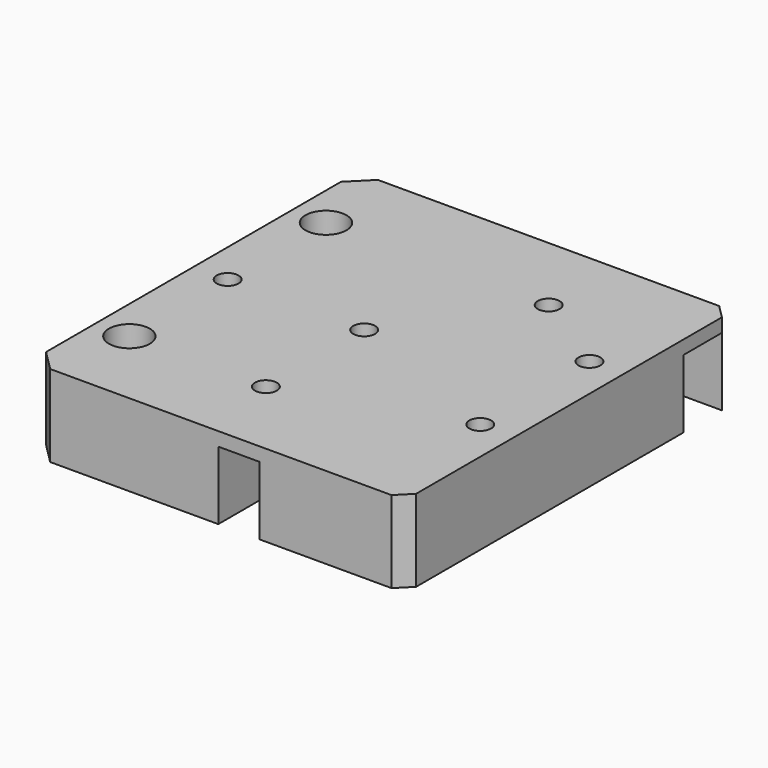
from build123d import *

# Parameters (mm, degrees)
BOX038_W          = 8
BOX038_H          = 10
BOX038_DEPTH      = 5
CYLINDER036_R     = 2.9
CYLINDER036_DEPTH = 2
CYLINDER033_R     = 2.9
CYLINDER033_DEPTH = 2
CHAMFER027_SIZE   = 0.4
BOX016_W          = 15
BOX016_H          = 13
BOX016_DEPTH      = 9
CHAMFER018_SIZE   = 2
BOX015_W          = 11
BOX015_H          = 54
BOX015_DEPTH      = 9
BOX017_W          = 15
BOX017_H          = 12
BOX017_DEPTH      = 9
CYLINDER042_R     = 3
CYLINDER042_DEPTH = 6
CHAMFER017_SIZE   = 2
CYLINDER043_R     = 3
CYLINDER043_DEPTH = 6
CHAMFER016_SIZE   = 2
BOX012_W          = 20
BOX012_H          = 20
BOX012_DEPTH      = 10
FILLET_R          = 9
BOX014_W          = 9
BOX014_H          = 7
BOX014_DEPTH      = 10
BOX013_W          = 6
BOX013_H          = 38
BOX013_DEPTH      = 10
CYLINDER038_R     = 1.6
CYLINDER038_DEPTH = 20
CYLINDER037_R     = 1.6
CYLINDER037_DEPTH = 20
CYLINDER041_R     = 1.6
CYLINDER041_DEPTH = 20
CYLINDER040_R     = 1.6
CYLINDER040_DEPTH = 20
CYLINDER039_R     = 1.6
CYLINDER039_DEPTH = 20
CYLINDER035_R     = 1.6
CYLINDER035_DEPTH = 20
BOX011_W          = 55
BOX011_H          = 60
BOX011_DEPTH      = 12
CHAMFER028_SIZE   = 1.99
CHAMFER029_SIZE   = 2
CHAMFER030_SIZE   = 3


with BuildPart() as cube037:
    # Box038 → Box038 (new body)
    with BuildSketch(Plane(origin=(27.63, 50, 23), x_dir=(1, 0, 0), z_dir=(0, 0, 1))):
        with Locations((4, 5)):
            Rectangle(BOX038_W, BOX038_H)
    extrude(amount=BOX038_DEPTH)


with BuildPart() as cylinder031:
    # Cylinder036 → Cylinder036 (new body)
    with BuildSketch(Plane(origin=(0, 48, 22), x_dir=(1, 0, 0), z_dir=(0, 0, 1))):
        Circle(CYLINDER036_R)
    extrude(amount=CYLINDER036_DEPTH)


with BuildPart() as chamfer027:
    # Cylinder033 → Cylinder033 (new body)
    with BuildSketch(Plane(origin=(0, 12, 22), x_dir=(1, 0, 0), z_dir=(0, 0, 1))):
        Circle(CYLINDER033_R)
    extrude(amount=CYLINDER033_DEPTH)

    # Fusion003025021: union Cylinder031
    add(cylinder031.part)


with BuildPart() as chamfer027_1:
    # Fusion003025021 placement: moved
    add(chamfer027.part.moved(Location((0, 0, -1))))

    # Chamfer027
    chamfer027_edges = [chamfer027_1.edges().sort_by_distance(p)[0] for p in [
        (-2.9, 12, 21),
        (-2.9, 48, 21),
    ]]
    chamfer(chamfer027_edges, length=CHAMFER027_SIZE)


with BuildPart() as chamfer018:
    # Box016 → Box016 (new body)
    with BuildSketch(Plane(origin=(32, 3, 23), x_dir=(1, 0, 0), z_dir=(0, 0, 1))):
        with Locations((7.5, 6.5)):
            Rectangle(BOX016_W, BOX016_H)
    extrude(amount=BOX016_DEPTH)

    # Chamfer018
    chamfer018_edges = [chamfer018.edges().sort_by_distance(p)[0] for p in [
        (47, 3, 27.5),
    ]]
    chamfer(chamfer018_edges, length=CHAMFER018_SIZE)


with BuildPart() as cube014:
    # Box015 → Box015 (new body)
    with BuildSketch(Plane(origin=(5, 3, 23), x_dir=(1, 0, 0), z_dir=(0, 0, 1))):
        with Locations((5.5, 27)):
            Rectangle(BOX015_W, BOX015_H)
    extrude(amount=BOX015_DEPTH)


with BuildPart() as fusion003025016:
    # Box017 → Box017 (new body)
    with BuildSketch(Plane(origin=(32, 24, 23), x_dir=(1, 0, 0), z_dir=(0, 0, 1))):
        with Locations((7.5, 6)):
            Rectangle(BOX017_W, BOX017_H)
    extrude(amount=BOX017_DEPTH)

    # Fusion003025016: union Chamfer018, Cube014
    add(chamfer018.part)
    add(cube014.part)


with BuildPart() as chamfer017:
    # Cylinder042 → Cylinder042 (new body)
    with BuildSketch(Plane(origin=(0, 12, 35), x_dir=(1, 0, 0), z_dir=(0, 0, 1))):
        Circle(CYLINDER042_R)
    extrude(amount=CYLINDER042_DEPTH)

    # Chamfer017
    chamfer017_edges = [chamfer017.edges().sort_by_distance(p)[0] for p in [
        (-3, 12, 35),
    ]]
    chamfer(chamfer017_edges, length=CHAMFER017_SIZE)


with BuildPart() as fusion003025012:
    # Cylinder043 → Cylinder043 (new body)
    with BuildSketch(Plane(origin=(0, 48, 35), x_dir=(1, 0, 0), z_dir=(0, 0, 1))):
        Circle(CYLINDER043_R)
    extrude(amount=CYLINDER043_DEPTH)

    # Chamfer016
    chamfer016_edges = [fusion003025012.edges().sort_by_distance(p)[0] for p in [
        (-3, 48, 35),
    ]]
    chamfer(chamfer016_edges, length=CHAMFER016_SIZE)

    # Fusion003025012: union Chamfer017
    add(chamfer017.part)


with BuildPart() as fusion003025012_1:
    # Fusion003025012 placement: moved
    add(fusion003025012.part.moved(Location((0, 0, -6))))


with BuildPart() as fillet_body:
    # Box012 → Box012 (new body)
    with BuildSketch(Plane(origin=(22.63, 38, 23), x_dir=(1, 0, 0), z_dir=(0, 0, 1))):
        with Locations((10, 10)):
            Rectangle(BOX012_W, BOX012_H)
    extrude(amount=BOX012_DEPTH)

    # Fillet
    fillet_edges = [fillet_body.edges().sort_by_distance(p)[0] for p in [
        (22.63, 58, 28),
        (42.63, 38, 28),
    ]]
    fillet(fillet_edges, radius=FILLET_R)


with BuildPart() as cube013:
    # Box014 → Box014 (new body)
    with BuildSketch(Plane(origin=(42, 51, 23), x_dir=(1, 0, 0), z_dir=(0, 0, 1))):
        with Locations((4.5, 3.5)):
            Rectangle(BOX014_W, BOX014_H)
    extrude(amount=BOX014_DEPTH)


with BuildPart() as fusion003025015:
    # Box013 → Box013 (new body)
    with BuildSketch(Plane(origin=(22.63, 0, 23), x_dir=(1, 0, 0), z_dir=(0, 0, 1))):
        with Locations((3, 19)):
            Rectangle(BOX013_W, BOX013_H)
    extrude(amount=BOX013_DEPTH)

    # Fusion003025015: union Fillet body, Cube013
    add(fillet_body.part)
    add(cube013.part)


with BuildPart() as cylinder033:
    # Cylinder038 → Cylinder038 (new body)
    with BuildSketch(Plane(origin=(20, 30, 22), x_dir=(1, 0, 0), z_dir=(0, 0, 1))):
        Circle(CYLINDER038_R)
    extrude(amount=CYLINDER038_DEPTH)


with BuildPart() as cylinder032:
    # Cylinder037 → Cylinder037 (new body)
    with BuildSketch(Plane(origin=(20, 12, 22), x_dir=(1, 0, 0), z_dir=(0, 0, 1))):
        Circle(CYLINDER037_R)
    extrude(amount=CYLINDER037_DEPTH)


with BuildPart() as cylinder036:
    # Cylinder041 → Cylinder041 (new body)
    with BuildSketch(Plane(origin=(45, 20, 22), x_dir=(1, 0, 0), z_dir=(0, 0, 1))):
        Circle(CYLINDER041_R)
    extrude(amount=CYLINDER041_DEPTH)


with BuildPart() as cylinder035:
    # Cylinder040 → Cylinder040 (new body)
    with BuildSketch(Plane(origin=(45, 40, 22), x_dir=(1, 0, 0), z_dir=(0, 0, 1))):
        Circle(CYLINDER040_R)
    extrude(amount=CYLINDER040_DEPTH)


with BuildPart() as cylinder034:
    # Cylinder039 → Cylinder039 (new body)
    with BuildSketch(Plane(origin=(32.63, 48, 22), x_dir=(1, 0, 0), z_dir=(0, 0, 1))):
        Circle(CYLINDER039_R)
    extrude(amount=CYLINDER039_DEPTH)


with BuildPart() as fusion003025009:
    # Cylinder035 → Cylinder035 (new body)
    with BuildSketch(Plane(origin=(0, 30, 22), x_dir=(1, 0, 0), z_dir=(0, 0, 1))):
        Circle(CYLINDER035_R)
    extrude(amount=CYLINDER035_DEPTH)

    # Fusion003025009: union Cylinder033, Cylinder032, Cylinder036, Cylinder035, Cylinder034
    add(cylinder033.part)
    add(cylinder032.part)
    add(cylinder036.part)
    add(cylinder035.part)
    add(cylinder034.part)


with BuildPart() as cut013003032019:
    # Box011 → Box011 (new body)
    with BuildSketch(Plane(origin=(-5, 0, 23), x_dir=(1, 0, 0), z_dir=(0, 0, 1))):
        with Locations((27.5, 30)):
            Rectangle(BOX011_W, BOX011_H)
    extrude(amount=BOX011_DEPTH)

    # Cut013003021: cut Fusion003025009
    add(fusion003025009.part, mode=Mode.SUBTRACT)

    # Cut013003022: cut Fusion003025015
    add(fusion003025015.part, mode=Mode.SUBTRACT)

    # Cut013003023: cut Fusion003025012
    add(fusion003025012_1.part, mode=Mode.SUBTRACT)

    # Cut013003026: cut Fusion003025016
    add(fusion003025016.part, mode=Mode.SUBTRACT)

    # Chamfer028
    chamfer028_edges = [cut013003032019.edges().sort_by_distance(p)[0] for p in [
        (50, 60, 29),
    ]]
    chamfer(chamfer028_edges, length=CHAMFER028_SIZE)

    # Chamfer029
    chamfer029_edges = [cut013003032019.edges().sort_by_distance(p)[0] for p in [
        (50, 0, 29),
    ]]
    chamfer(chamfer029_edges, length=CHAMFER029_SIZE)

    # Chamfer030
    chamfer030_edges = [cut013003032019.edges().sort_by_distance(p)[0] for p in [
        (-5, 0, 29),
        (-5, 60, 29),
    ]]
    chamfer(chamfer030_edges, length=CHAMFER030_SIZE)

    # Fusion003025022: union Chamfer027
    add(chamfer027_1.part)

    # Cut013003032019: cut Cube037
    add(cube037.part, mode=Mode.SUBTRACT)


solid = cut013003032019.part
